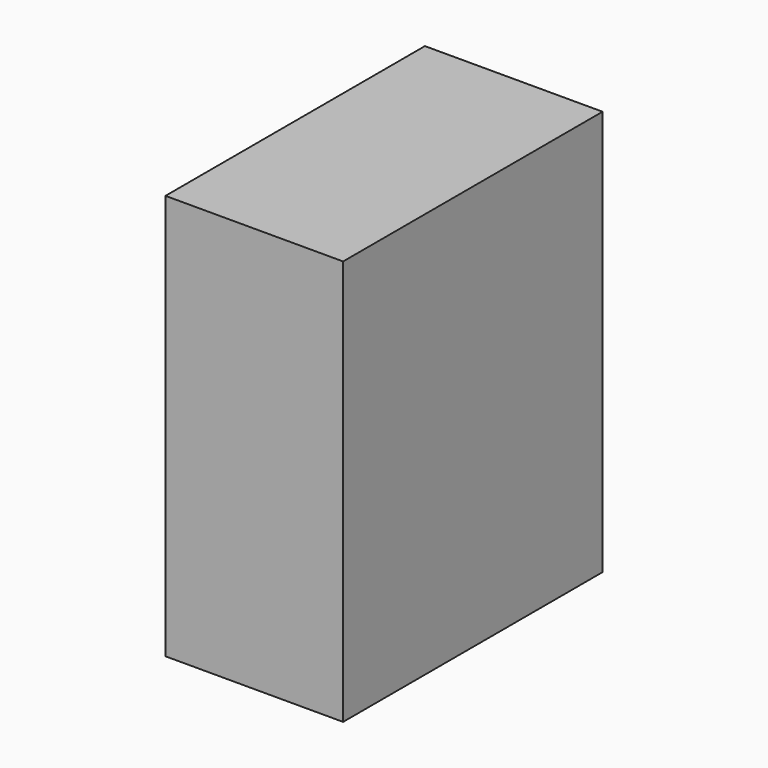
from build123d import *

# Parameters (mm, degrees)
F0_W     = 9.933377673
F0_H     = 101.6
F0_W_2   = 45.72
F1_DEPTH = 127


with BuildPart() as f1:
    # F0 (on Top) → F1 (new body)
    with BuildSketch(Plane.XY):
        with Locations((-2.9246745662, -17.8570347139)):
            Rectangle(F0_W, F0_H)
        with Locations((-30.7513634027, -17.8570347139)):
            Rectangle(F0_W_2, F0_H)
    extrude(amount=F1_DEPTH)


solid = f1.part
